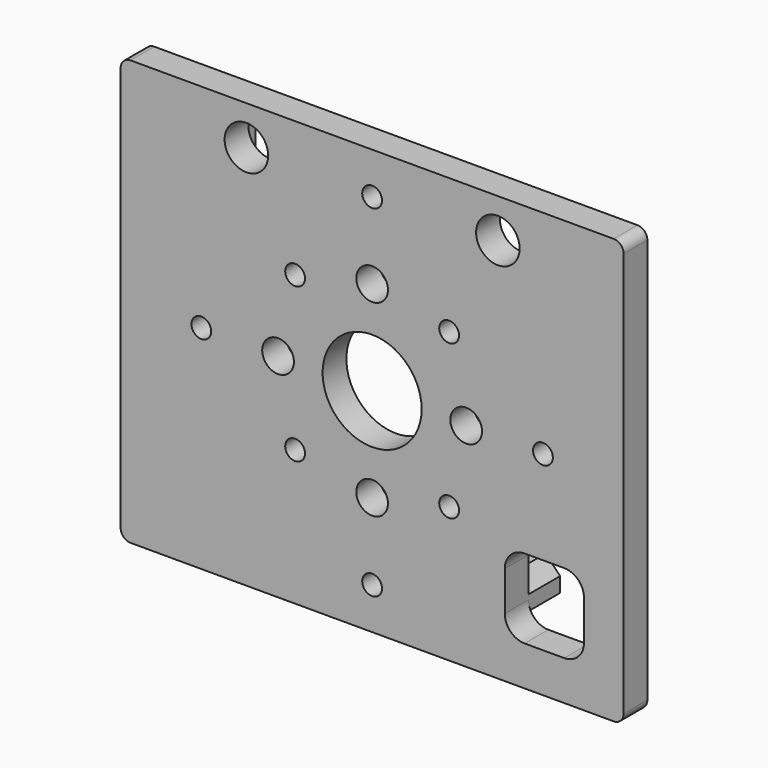
from build123d import *

# Parameters (mm, degrees)
F0_W     = 50.8
F0_H     = 42.9
F0_R     = 1
F0_R_2   = 1.6
F0_R_3   = 5
F0_R_4   = 2.2
F1_DEPTH = 3
F2_R     = 1
F3_W     = 3
F3_H     = 5
F3_H_2   = 4
F3_W_2   = 5
F3_H_3   = 3
F4_DEPTH = 4
F5_SIZE  = 1.5


with BuildPart() as f1:
    # F0 (on Front) → F1 (new body)
    with BuildSketch(Plane.XZ):
        Rectangle(F0_W, F0_H)
        with Locations((0, -17.25)):
            Circle(F0_R, mode=Mode.SUBTRACT)
        with Locations((-7.7781745931, -7.7781745931)):
            Circle(F0_R, mode=Mode.SUBTRACT)
        with Locations((0, -9.5)):
            Circle(F0_R_2, mode=Mode.SUBTRACT)
        with BuildLine():
            ThreePointArc((21.4, -15.45), (20.8142135624, -16.8642135624), (19.4, -17.45))
            Line((19.4, -17.45), (15.4, -17.45))
            ThreePointArc((15.4, -17.45), (13.9857864376, -16.8642135624), (13.4, -15.45))
            Line((13.4, -15.45), (13.4, -11.45))
            ThreePointArc((13.4, -11.45), (13.9857864376, -10.0357864376), (15.4, -9.45))
            Line((15.4, -9.45), (19.4, -9.45))
            ThreePointArc((19.4, -9.45), (20.8142135624, -10.0357864376), (21.4, -11.45))
            Line((21.4, -11.45), (21.4, -15.45))
        make_face(mode=Mode.SUBTRACT)
        with Locations((7.7781745931, -7.7781745931)):
            Circle(F0_R, mode=Mode.SUBTRACT)
        with Locations((-17.25, 0)):
            Circle(F0_R, mode=Mode.SUBTRACT)
        with Locations((-9.5, 0)):
            Circle(F0_R_2, mode=Mode.SUBTRACT)
        Circle(F0_R_3, mode=Mode.SUBTRACT)
        with Locations((-7.7781745931, 7.7781745931)):
            Circle(F0_R, mode=Mode.SUBTRACT)
        with Locations((0, 9.5)):
            Circle(F0_R_2, mode=Mode.SUBTRACT)
        with Locations((-12.7, 17.5)):
            Circle(F0_R_4, mode=Mode.SUBTRACT)
        with Locations((0, 17.25)):
            Circle(F0_R, mode=Mode.SUBTRACT)
        with Locations((9.5, 0)):
            Circle(F0_R_2, mode=Mode.SUBTRACT)
        with Locations((7.7781745931, 7.7781745931)):
            Circle(F0_R, mode=Mode.SUBTRACT)
        with Locations((17.25, 0)):
            Circle(F0_R, mode=Mode.SUBTRACT)
        with Locations((12.7, 17.5)):
            Circle(F0_R_4, mode=Mode.SUBTRACT)
    extrude(amount=F1_DEPTH)

    # F2
    f2_edges = [f1.edges().sort_by_distance(p)[0] for p in [
        (25.4, -1.5, 21.45),
        (25.4, -1.5, -21.45),
        (-25.4, -1.5, -21.45),
        (-25.4, -1.5, 21.45),
    ]]
    fillet(f2_edges, radius=F2_R)

    # F3 (on face) → F4 (join)
    with BuildSketch(Plane(origin=(0, 0, 0), x_dir=(-1, 0, 0), z_dir=(0, 1, 0))):
        with Locations((-18.9, 13.95)):
            Rectangle(F3_W, F3_H)
        with Locations((-18.9, -7.45)):
            Rectangle(F3_W, F3_H_2)
        with Locations((18.9, 13.95)):
            Rectangle(F3_W, F3_H)
        Polygon((20.4, -16.45), (20.4, -5.45), (17.4, -5.45), (17.4, -13.45), (8.4, -13.45), (8.4, -16.45), align=None)
        with Locations((-10.9, -14.95)):
            Rectangle(F3_W_2, F3_H_3)
    extrude(amount=F4_DEPTH)

    # F5
    f5_edges = [f1.edges().sort_by_distance(p)[0] for p in [
        (13.4, 2, -13.45),
        (17.4, 2, -9.45),
    ]]
    chamfer(f5_edges, length=F5_SIZE)


solid = f1.part
